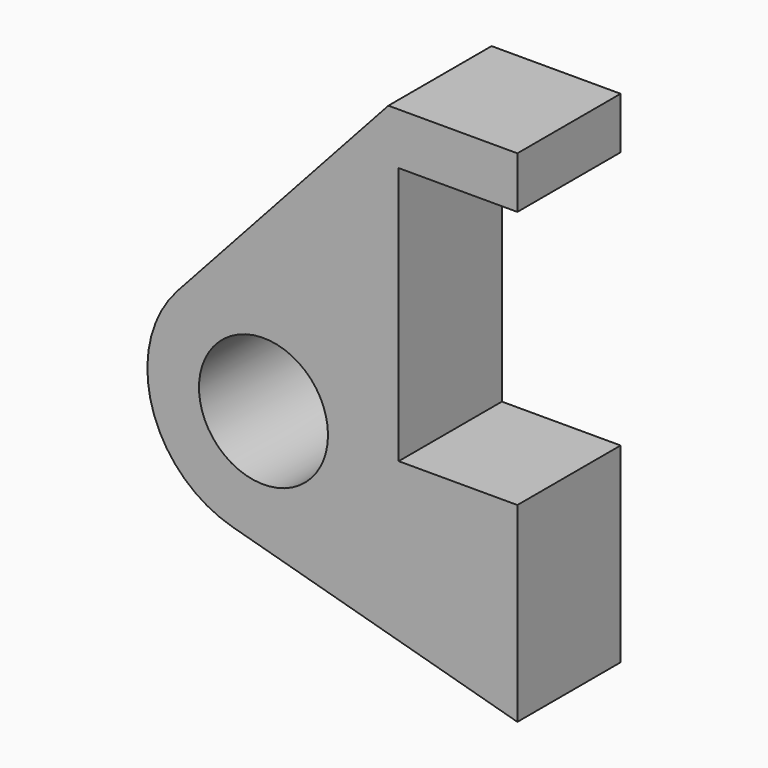
from build123d import *

# Parameters (mm, degrees)
F0_R     = 3.175
F1_DEPTH = 6.35


with BuildPart() as f1:
    # F0 (on Front) → F1 (new body)
    with BuildSketch(Plane.XZ):
        with BuildLine():
            Line((-0.9398, 0), (0, 0))
            Line((0, 0), (0, 12.7))
            Line((0, 12.7), (5.842, 12.7))
            Line((5.842, 12.7), (5.842, 15.24))
            Line((5.842, 15.24), (-0.508, 15.24))
            Line((-0.508, 15.24), (-10.88063, 3.847543))
            ThreePointArc((-10.88063, 3.847543), (-4.591961, 5.329721), (-0.9398, 0))
        make_face()
        with BuildLine():
            Line((5.842, 0), (0, 0))
            Line((0, 0), (-0.9398, 0))
            ThreePointArc((-0.9398, 0), (-3.195791, -4.549339), (-8.182663, -5.506983))
            Line((-8.182663, -5.506983), (5.842, -9.398))
            Line((5.842, -9.398), (5.842, 0))
        make_face()
        with BuildLine():
            ThreePointArc((-8.182663, -5.506983), (-3.195791, -4.549339), (-0.9398, 0))
            ThreePointArc((-0.9398, 0), (-4.591961, 5.329721), (-10.88063, 3.847543))
            ThreePointArc((-10.88063, 3.847543), (-12.145978, -1.583727), (-8.182663, -5.506983))
        make_face()
        with Locations((-6.6548, 0)):
            Circle(F0_R, mode=Mode.SUBTRACT)
    extrude(amount=F1_DEPTH)


solid = f1.part
